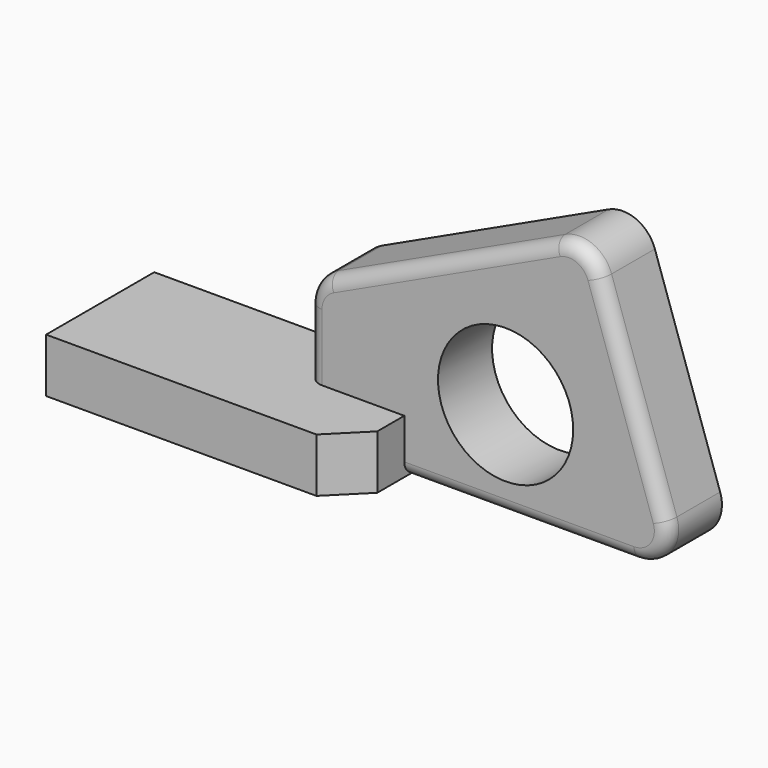
from build123d import *

# Parameters (mm, degrees)
F0_R     = 10
F1_DEPTH = 10
F2_W     = 45
F2_H     = 8
F3_DEPTH = 20
F4_SIZE  = 5
F5_R     = 2
F6_T     = -1.5


with BuildPart() as f1:
    # F0 (on Front) → F1 (new body)
    with BuildSketch(Plane.XZ):
        with BuildLine():
            Line((-17.1517986995, 17.8985519321), (-17.1517986995, 5))
            ThreePointArc((-17.1517986995, 5), (-15.6873326054, 1.4644660941), (-12.1517986995, 0))
            Line((-12.1517986995, 0), (31.0146413554, 0))
            ThreePointArc((31.0146413554, 0), (35.0779397644, 2.0863071474), (35.7503227684, 6.6041575842))
            Line((35.7503227684, 6.6041575842), (26.0925432946, 35.115176199))
            ThreePointArc((26.0925432946, 35.115176199), (23.3227556246, 38.1083288927), (19.245201431, 38.0432244951))
            Line((19.245201431, 38.0432244951), (-14.2634591502, 22.4307578124))
            ThreePointArc((-14.2634591502, 22.4307578124), (-16.368331769, 20.585715655), (-17.1517986995, 17.8985519321))
        make_face()
        with Locations((12.0080858469, 14.3155753613)):
            Circle(F0_R, mode=Mode.SUBTRACT)
    extrude(amount=F1_DEPTH)

    # F2 (on Front) → F3 (join)
    with BuildSketch(Plane.XZ):
        with Locations((-25.4780513432, 4)):
            Rectangle(F2_W, F2_H)
    extrude(amount=F3_DEPTH)

    # F4
    f4_edges = [f1.edges().sort_by_distance(p)[0] for p in [
        (-2.978051, -20, 4),
    ]]
    chamfer(f4_edges, length=F4_SIZE)

    # F5
    f5_edges = [f1.edges().sort_by_distance(p)[0] for p in [
        (-17.151799, -10, 12.949276),
        (-16.368332, -10, 20.585716),
        (2.490871, -10, 30.236991),
        (23.322756, -10, 38.108329),
        (30.921433, -10, 20.859667),
        (35.07794, -10, 2.086307),
        (14.018295, -10, 0),
    ]]
    fillet(f5_edges, radius=F5_R)

    # F6
    f6_openings = [f1.faces().sort_by_distance(p)[0] for p in [
        (-47.978051, -10, 4),
    ]]
    offset(amount=F6_T, openings=f6_openings, kind=Kind.INTERSECTION)


solid = f1.part
